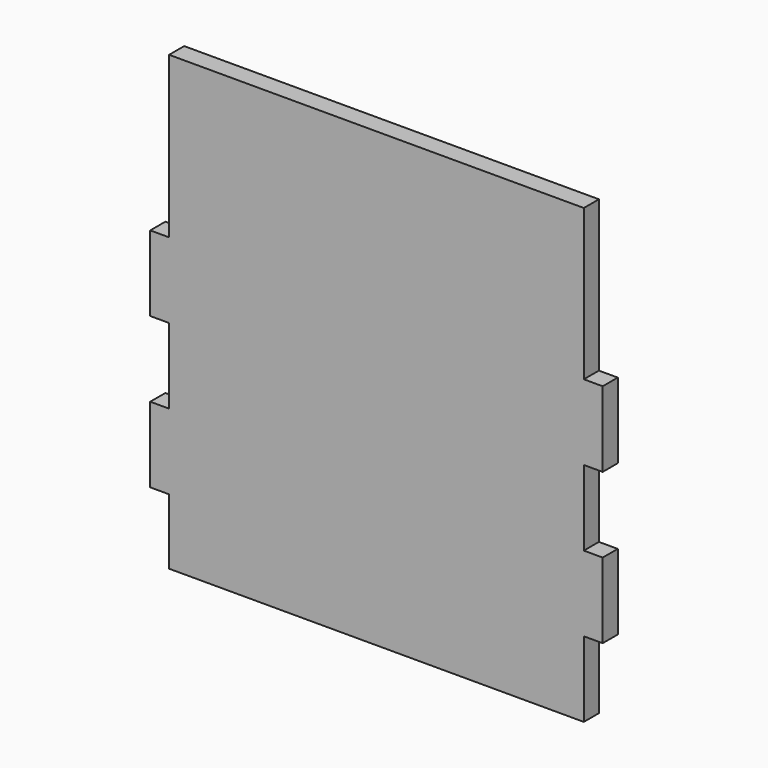
from build123d import *

# Parameters (mm, degrees)
F0_W     = 19.05
F0_H     = 76.2
F1_DEPTH = 19.05


with BuildPart() as f1:
    # F0 (on Front) → F1 (new body)
    with BuildSketch(Plane.XZ):
        Polygon((80.788266, 152.4), (-338.311734, 152.4), (-338.311734, -10.011766), (-338.311734, -86.211766), (-338.311734, -162.411766), (-338.311734, -238.611766), (-338.311734, -304.8), (80.788266, -304.8), (80.788266, -228.6), (80.788266, -152.4), (80.788266, -76.2), (80.788266, 0), (80.788266, 76.2), align=None)
        with Locations((-347.836734, -48.111766)):
            Rectangle(F0_W, F0_H)
        with Locations((-347.836734, -200.511766)):
            Rectangle(F0_W, F0_H)
        with Locations((90.313266, -38.1)):
            Rectangle(F0_W, F0_H)
        with Locations((90.313266, -190.5)):
            Rectangle(F0_W, F0_H)
    extrude(amount=F1_DEPTH)


solid = f1.part
